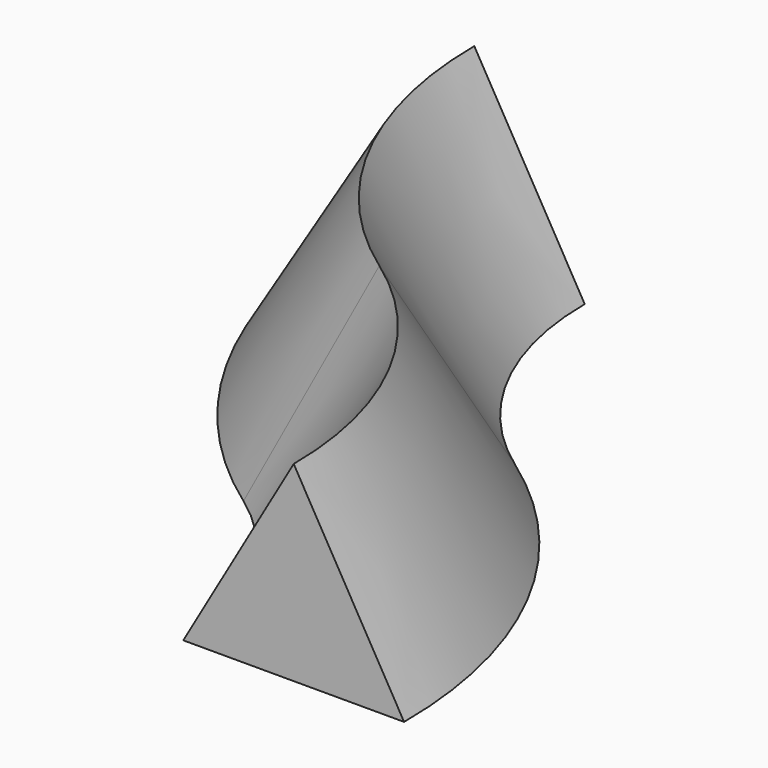
from build123d import *


with BuildPart() as f2:
    # F2: sweep along a path in F0
    with BuildLine(Plane.XY) as f2_path:
        ThreePointArc((0, 0), (-6.726505, 27.624275), (-25.4, 49.063656))
        ThreePointArc((-25.4, 49.063656), (-62.74699, 91.942418), (-76.2, 147.190969))
    # F1 (on Front) → F2 (sweep)
    with BuildSketch(Plane.XZ):
        Polygon((0, 0), (50.8, 0), (25.4, 43.994091), align=None)
    sweep(path=f2_path.line)


solid = f2.part
